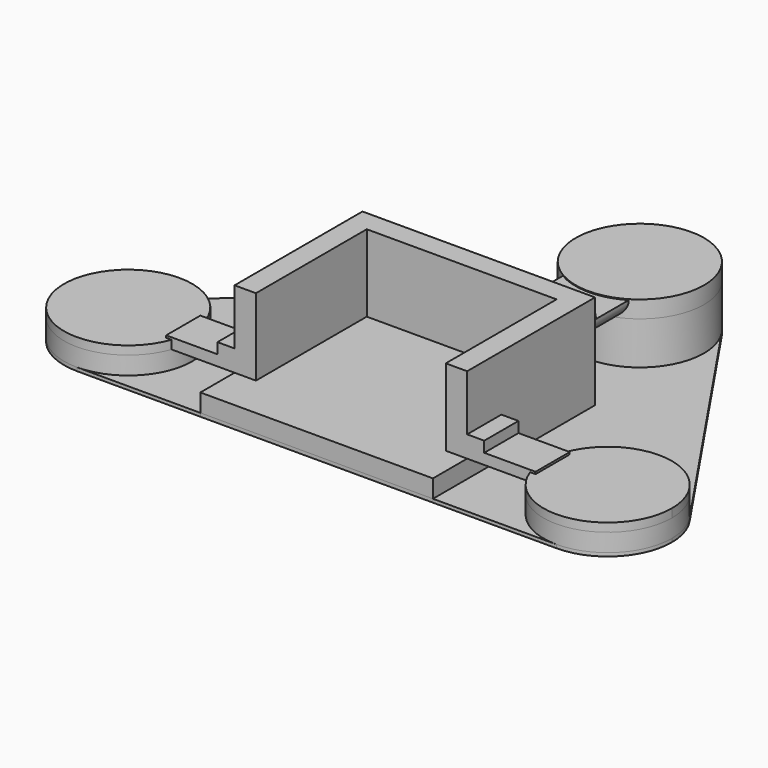
from build123d import *

# Parameters (mm, degrees)
F0_W           = 13.6
F0_H           = 11.85
F1_DEPTH       = 5.75
F2_T           = -1.25
F3_W           = 2.5
F3_H           = 1.25
F4_DEPTH       = 1
F6_W           = 5
F6_H           = 1.15
F7_DEPTH       = 1.5
F9_DEPTH       = 1.5
F10_W          = 4.3600509252
F10_H          = 4.6871736337
F11_DEPTH      = 7.801
F11_DEPTH_BACK = 7.801
F13_W          = 2.5
F13_H          = 0.625
F14_DEPTH      = 3
F15_W          = 2.5
F15_H          = 0.625
F16_DEPTH      = 3
F18_DEPTH      = 3
F19_R          = 3.75
F20_DEPTH      = 1.25
F20_DEPTH_BACK = 0.5
F21_R          = 3.75
F22_DEPTH      = 2.7
F22_DEPTH_BACK = 1
F24_DEPTH      = 0.2
F12_R          = 0.875
F25_DEPTH      = 0.4


with BuildPart() as f1:
    # F0 (on Top) → F1 (new body)
    with BuildSketch(Plane.XY):
        Rectangle(F0_W, F0_H)
    extrude(amount=F1_DEPTH)

    # F2
    f2_openings = [f1.faces().sort_by_distance(p)[0] for p in [
        (0, 0, 5.75),
    ]]
    offset(amount=F2_T, openings=f2_openings)

    # F3 (on face) → F4 (join)
    with BuildSketch(Plane.YZ.offset(6.8)):
        with Locations((-2.175, 1.875)):
            Rectangle(F3_W, F3_H)
    extrude(amount=F4_DEPTH)

    # F5: F1 across plane


with BuildPart() as f1_1:
    add(f1.part)
    add(f1.part.mirror(Plane.YZ))

    # F6 (on face) → F7 (join)
    with BuildSketch(Plane.XZ.offset(5.925)):
        with Locations((0, 3.075)):
            Rectangle(F6_W, F6_H)
    extrude(amount=F7_DEPTH)

    # F8 (on face) → F9 (join)
    with BuildSketch(Plane(origin=(0, 5.925, 0), x_dir=(-1, 0, 0), z_dir=(0, 1, 0))):
        with BuildLine():
            Line((-4.7, 2.7), (-2.75, 2.7))
            ThreePointArc((-2.75, 2.7), (-2.0782485579, 2.9782485579), (-1.8, 3.65))
            ThreePointArc((-1.8, 3.65), (-2.0782485579, 4.3217514421), (-2.75, 4.6))
            Line((-2.75, 4.6), (-4.7, 4.6))
            ThreePointArc((-4.7, 4.6), (-5.3717514421, 4.3217514421), (-5.65, 3.65))
            ThreePointArc((-5.65, 3.65), (-5.3717514421, 2.9782485579), (-4.7, 2.7))
        make_face()
    extrude(amount=F9_DEPTH)

    # F10 (on Right) → F11 (cut, two sides)
    with BuildSketch(Plane.YZ) as f11_sk:
        with Locations((-5.6050254626, 3.5935868168)):
            Rectangle(F10_W, F10_H)
    extrude(amount=-F11_DEPTH, mode=Mode.SUBTRACT)
    extrude(f11_sk.sketch, amount=F11_DEPTH_BACK, mode=Mode.SUBTRACT)

    # F13 (on face) → F14 (join)
    with BuildSketch(Plane.YZ.offset(7.8)):
        with Locations((-2.175, 1.5625)):
            Rectangle(F13_W, F13_H)
    extrude(amount=F14_DEPTH)

    # F15 (on face) → F16 (join)
    with BuildSketch(Plane(origin=(-7.8, 0, 0), x_dir=(0, -1, 0), z_dir=(-1, 0, 0))):
        with Locations((2.175, 1.5625)):
            Rectangle(F15_W, F15_H)
    extrude(amount=F16_DEPTH)

    # F17 (on face) → F18 (join)
    with BuildSketch(Plane(origin=(0, 7.425, 0), x_dir=(-1, 0, 0), z_dir=(0, 1, 0))):
        with BuildLine():
            Line((-4.7, 2.7), (-2.75, 2.7))
            ThreePointArc((-2.75, 2.7), (-2.0782485579, 2.9782485579), (-1.8, 3.65))
            Line((-1.8, 3.65), (-5.65, 3.65))
            ThreePointArc((-5.65, 3.65), (-5.3717514421, 2.9782485579), (-4.7, 2.7))
        make_face()
    extrude(amount=F18_DEPTH)

    # F19 (on face) → F20 (join, two sides)
    with BuildSketch(Plane(origin=(0, 0, 1.25), x_dir=(1, 0, 0), z_dir=(0, 0, -1))) as f20_sk:
        with Locations((-14.0194073319, 2.175)):
            Circle(F19_R)
        with Locations((14.0194073319, 2.175)):
            Circle(F19_R)
    extrude(amount=F20_DEPTH)
    extrude(f20_sk.sketch, amount=-F20_DEPTH_BACK)

    # F21 (on face) → F22 (join, two sides)
    with BuildSketch(Plane(origin=(0, 0, 2.7), x_dir=(1, 0, 0), z_dir=(0, 0, -1))) as f22_sk:
        with Locations((3.725, -13.0435097963)):
            Circle(F21_R)
    extrude(amount=F22_DEPTH)
    extrude(f22_sk.sketch, amount=-F22_DEPTH_BACK)

    # F23 (on Top) → F24 (join)
    with BuildSketch(Plane.XY):
        with BuildLine():
            Line((1.2836985293, 15.8900071403), (-16.4607088026, 0.6714973441))
            ThreePointArc((-16.4607088026, 0.6714973441), (-17.536285567, -3.4765634752), (-14.0194073319, -5.925))
            Line((-14.0194073319, -5.925), (14.0194073319, -5.925))
            ThreePointArc((14.0194073319, -5.925), (17.3316275311, -3.9333223118), (17.1255143602, -0.0739052545))
            Line((17.1255143602, -0.0739052545), (6.8311070282, 15.1446045417))
            ThreePointArc((6.8311070282, 15.1446045417), (4.2243975028, 16.7601079901), (1.2836985293, 15.8900071403))
        make_face()
    extrude(amount=F24_DEPTH)

    # F12 (on Top) → F25 (cut)
    with BuildSketch(Plane.XY):
        with Locations((0, -4.125)):
            Circle(F12_R)
        with BuildLine():
            ThreePointArc((4.3735203272, 2.1210343377), (5.4180666877, 2.3052160437), (5.2338849817, 3.3497624041))
            ThreePointArc((5.2338849817, 3.3497624041), (0, 5), (-5.2338849817, 3.3497624041))
            ThreePointArc((-5.2338849817, 3.3497624041), (-5.4180666877, 2.3052160437), (-4.3735203272, 2.1210343377))
            ThreePointArc((-4.3735203272, 2.1210343377), (0, 3.5), (4.3735203272, 2.1210343377))
        make_face()
        with BuildLine():
            ThreePointArc((2.7961851272, -0.1316337841), (3.8407314877, 0.0525479219), (3.6565497817, 1.0970942823))
            ThreePointArc((3.6565497817, 1.0970942823), (0, 2.25), (-3.6565497817, 1.0970942823))
            ThreePointArc((-3.6565497817, 1.0970942823), (-3.8407314877, 0.0525479219), (-2.7961851272, -0.1316337841))
            ThreePointArc((-2.7961851272, -0.1316337841), (0, 0.75), (2.7961851272, -0.1316337841))
        make_face()
        with BuildLine():
            ThreePointArc((1.2188499272, -2.3843019059), (2.2633962877, -2.2001201999), (2.0792145818, -1.1555738395))
            ThreePointArc((2.0792145818, -1.1555738395), (0, -0.5), (-2.0792145818, -1.1555738395))
            ThreePointArc((-2.0792145818, -1.1555738395), (-2.2633962877, -2.2001201999), (-1.2188499272, -2.3843019059))
            ThreePointArc((-1.2188499272, -2.3843019059), (0, -2), (1.2188499272, -2.3843019059))
        make_face()
    extrude(amount=F25_DEPTH, mode=Mode.SUBTRACT)


solid = f1_1.part
